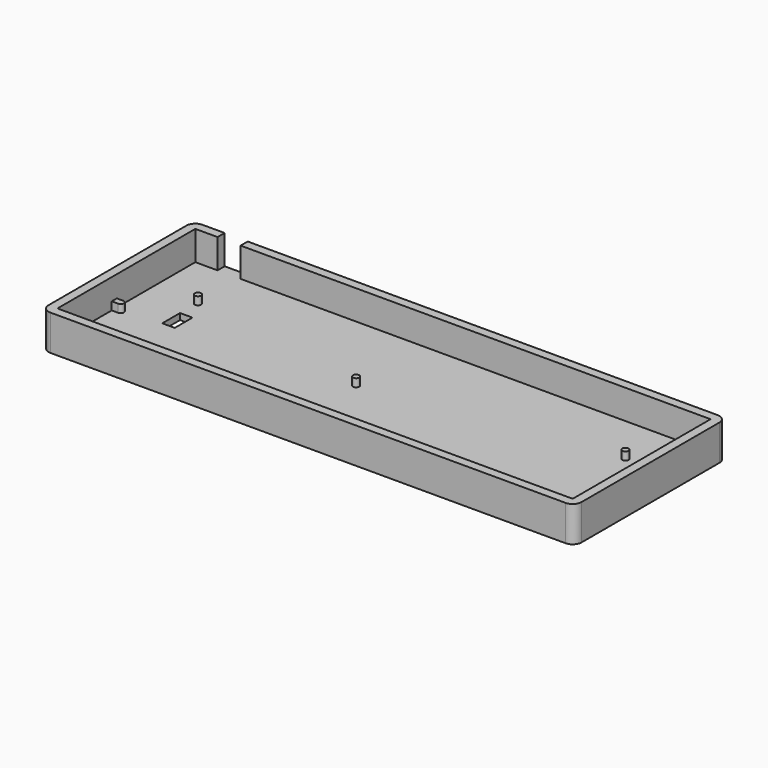
from build123d import *

# Parameters (mm, degrees)
F0_W     = 300
F0_H     = 107
F1_DEPTH = 20
F2_R     = 5
F3_W     = 13
F3_H     = 5
F4_DEPTH = 16.5
F5_R     = 1.8
F6_DEPTH = 4.5
F7_W     = 7
F7_H     = 12.5
F8_DEPTH = 25


with BuildPart() as f1:
    # F0 (on Top) → F1 (new body)
    with BuildSketch(Plane.XY):
        with Locations((150, 53.5)):
            Rectangle(F0_W, F0_H)
    extrude(amount=F1_DEPTH)

    # F2
    f2_edges = [f1.edges().sort_by_distance(p)[0] for p in [
        (0, 107, 10),
        (0, 0, 10),
        (300, 0, 10),
        (300, 107, 10),
    ]]
    fillet(f2_edges, radius=F2_R)

    # F3 (on face) + F1_face1 (on face) → F4 (cut)
    with BuildSketch(Plane.XY.offset(20)):
        Polygon((17.5, 102), (5, 102), (5, 5), (295, 5), (295, 102), (30.5, 102), align=None)
        with Locations((24, 104.5)):
            Rectangle(F3_W, F3_H)
    with BuildSketch(Plane(origin=(150, 53.5, 0), x_dir=(1, 0, 0), z_dir=(0, 0, -1))):
        with BuildLine():
            Line((-150, 48.5), (-150, -48.5))
            ThreePointArc((-150, -48.5), (-148.5355339059, -52.0355339059), (-145, -53.5))
            Line((-145, -53.5), (145, -53.5))
            ThreePointArc((145, -53.5), (148.5355339059, -52.0355339059), (150, -48.5))
            Line((150, -48.5), (150, 48.5))
            ThreePointArc((150, 48.5), (148.5355339059, 52.0355339059), (145, 53.5))
            Line((145, 53.5), (-145, 53.5))
            ThreePointArc((-145, 53.5), (-148.5355339059, 52.0355339059), (-150, 48.5))
        make_face()
    extrude(amount=-F4_DEPTH, dir=(0, 0, 1), mode=Mode.SUBTRACT)

    # F5 (on face) → F6 (join)
    with BuildSketch(Plane.XY.offset(3.5)):
        with Locations((269.5, 74)):
            Circle(F5_R)
        with Locations((226.4248728752, 14.5)):
            Circle(F5_R)
        with Locations((133.5, 54.5)):
            Circle(F5_R)
        with Locations((30.5, 72)):
            Circle(F5_R)
        with BuildLine():
            Line((8.6, 46.8000370503), (5, 46.8000370503))
            Line((5, 46.8000370503), (5, 43.2001111493))
            Line((5, 43.2001111493), (8.6230977842, 43.2001111493))
            ThreePointArc((8.6230977842, 43.2001111493), (10.4, 45.0115491298), (8.6, 46.8000370503))
        make_face()
        with BuildLine():
            Line((295, 43.2001111493), (295, 46.8000370503))
            Line((295, 46.8000370503), (291.4, 46.8000370503))
            ThreePointArc((291.4, 46.8000370503), (289.6, 45.0115491298), (291.3769022158, 43.2001111493))
            Line((291.3769022158, 43.2001111493), (295, 43.2001111493))
        make_face()
    extrude(amount=F6_DEPTH)

    # F7 (on face) → F8 (cut)
    with BuildSketch(Plane.XY.offset(3.5)):
        with Locations((33.5, 53.75)):
            Rectangle(F7_W, F7_H)
    extrude(amount=-F8_DEPTH, mode=Mode.SUBTRACT)


solid = f1.part
